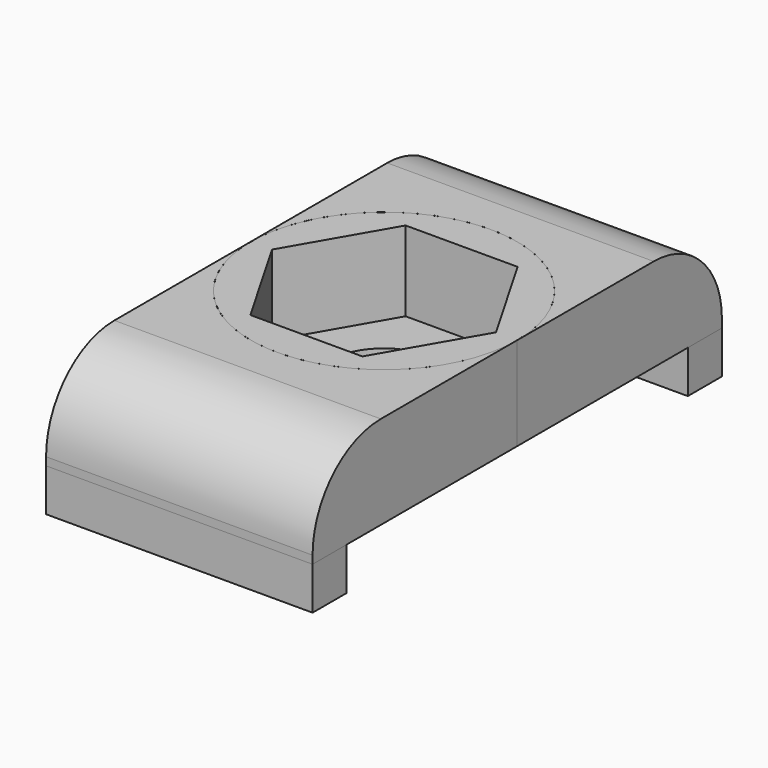
from build123d import *

# Parameters (mm, degrees)
F0_R     = 7.9375
F0_R_2   = 3.3655
F1_DEPTH = 5.55752
F2_R     = 3.3655
F3_DEPTH = 4.7625
F5_DEPTH = 5.55752
F6_W     = 15.875
F6_H     = 2.54
F7_W     = 15.875
F7_H     = 2.54
F8_DEPTH = 2.54
F9_R     = 5.08


with BuildPart() as f1:
    # F0 (on Top) → F1 (new body)
    with BuildSketch(Plane.XY):
        Circle(F0_R)
        Circle(F0_R_2, mode=Mode.SUBTRACT)
    extrude(amount=F1_DEPTH)

    # F2 (on face) → F3 (cut)
    with BuildSketch(Plane.XY.offset(5.55752)):
        Polygon((-3.336219, 5.7785), (-6.672437, 0), (-3.336219, -5.7785), (3.336219, -5.7785), (6.672437, 0), (3.336219, 5.7785), align=None)
        Circle(F2_R, mode=Mode.SUBTRACT)
    extrude(amount=-F3_DEPTH, mode=Mode.SUBTRACT)


with BuildPart() as f5:
    # F4 (on face) → F5 (new body)
    with BuildSketch(Plane.XY.offset(5.55752)):
        with BuildLine():
            Line((7.9375, 15.24), (-7.9375, 15.24))
            Line((-7.9375, 15.24), (-7.9375, 0))
            ThreePointArc((-7.9375, 0), (0, 7.9375), (7.9375, 0))
            Line((7.9375, 0), (7.9375, 15.24))
        make_face()
        with BuildLine():
            ThreePointArc((7.9375, 0), (0, -7.9375), (-7.9375, 0))
            Line((-7.9375, 0), (-7.9375, -15.24))
            Line((-7.9375, -15.24), (7.9375, -15.24))
            Line((7.9375, -15.24), (7.9375, 0))
        make_face()
    extrude(amount=-F5_DEPTH)

    # F9
    f9_edges = [f5.edges().sort_by_distance(p)[0] for p in [
        (0, -15.24, 5.55752),
        (0, 15.24, 5.55752),
    ]]
    fillet(f9_edges, radius=F9_R)


with BuildPart() as f8:
    # F6 (on face) + F7 (on face) → F8 (new body)
    with BuildSketch(Plane(origin=(0, 0, 0), x_dir=(1, 0, 0), z_dir=(0, 0, -1))):
        with Locations((0, 13.97)):
            Rectangle(F6_W, F6_H)
    with BuildSketch(Plane(origin=(0, 0, 0), x_dir=(1, 0, 0), z_dir=(0, 0, -1))):
        with Locations((0, -13.97)):
            Rectangle(F7_W, F7_H)
    extrude(amount=F8_DEPTH)


solid = Compound([f1.part, f5.part, f8.part])
